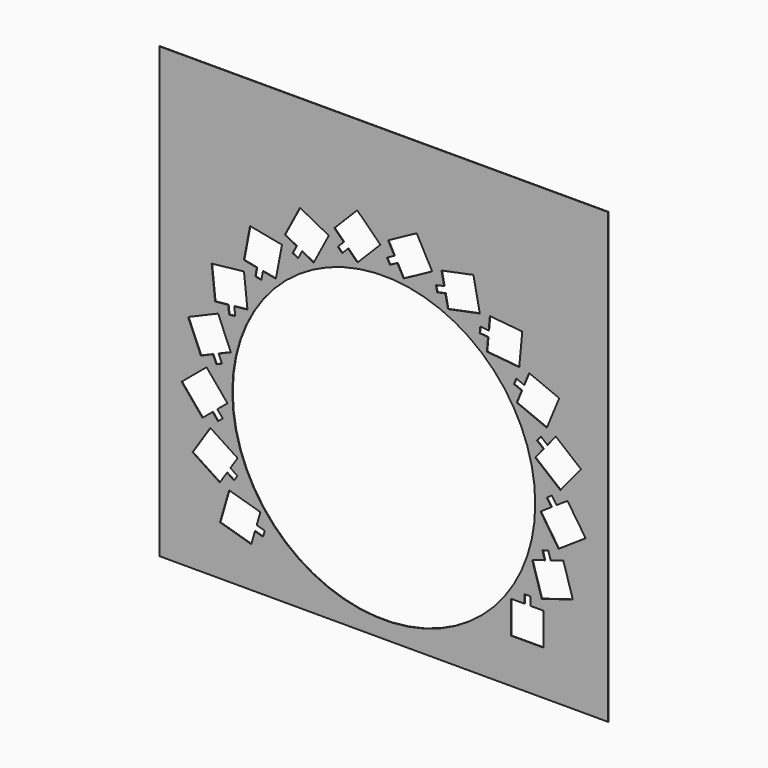
from build123d import *

# Parameters (mm, degrees)
F0_W     = 800
F0_H     = 800
F1_DEPTH = 1
F2_R     = 270
F3_DEPTH = 3
F5_DEPTH = 1


with BuildPart() as f1:
    # F0 (on Front) → F1 (new body)
    with BuildSketch(Plane.XZ):
        Rectangle(F0_W, F0_H)
    extrude(amount=F1_DEPTH)

    # F2 (on Front) → F3 (cut)
    with BuildSketch(Plane.XZ):
        with Locations((0, -100)):
            Circle(F2_R)
    extrude(amount=F3_DEPTH, mode=Mode.SUBTRACT)

    # F4 (on face) → F5 (cut, through all)
    with BuildSketch(Plane.XZ.offset(1)):
        Polygon((250.5, -263), (227, -263), (227, -321), (285, -321), (285, -263), (261.5, -263), (261.5, -248), (250.5, -248), align=None)
        Polygon((320.098432, -173.013655), (297.615381, -179.851959), (293.250506, -165.501075), (282.726524, -168.701983), (287.091399, -183.052867), (264.608347, -189.89117), (281.485863, -245.381255), (336.975947, -228.50374), align=None)
        Polygon((327.492726, -76.708065), (307.972505, -89.792825), (299.62053, -77.333109), (290.483405, -83.457891), (298.83538, -95.917606), (279.315158, -109.002367), (311.609459, -157.179935), (359.787028, -124.885634), align=None)
        Polygon((306.542915, 17.581635), (291.674975, -0.617111), (280.058755, 8.873064), (273.099293, 0.354502), (284.715514, -9.135673), (269.847574, -27.334419), (314.763629, -64.02976), (351.45897, -19.113706), align=None)
        Polygon((259.062181, 101.694786), (250.133325, 79.957133), (236.258228, 85.656403), (232.078763, 75.481331), (245.95386, 69.782062), (237.025005, 48.044409), (290.675381, 26.007233), (312.712557, 79.65761), align=None)
        Polygon((189.159923, 168.351493), (186.942933, 144.956302), (172.009833, 146.371402), (170.972093, 135.420461), (185.905193, 134.005361), (183.688204, 110.61017), (241.429526, 105.138451), (246.901245, 162.879773), align=None)
        Polygon((102.886099, 211.782698), (107.572853, 188.754794), (92.874192, 185.763249), (95.067991, 174.98423), (109.766653, 177.975776), (114.453407, 154.947872), (171.288233, 166.51518), (159.720925, 223.350006), align=None)
        Polygon((7.707606, 228.229482), (18.892471, 207.561904), (5.7004, 200.422628), (10.935869, 190.748442), (24.12794, 197.887718), (35.312805, 177.22014), (86.322147, 204.825338), (58.716949, 255.834681), align=None)
        Polygon((-88.137971, 216.268396), (-71.423032, 199.749897), (-81.966754, 189.080787), (-74.14274, 181.348723), (-63.599017, 192.017833), (-46.884078, 175.499334), (-6.115017, 216.753227), (-47.368909, 257.522288), align=None)
        Polygon((-176.355311, 176.934657), (-155.556956, 165.994894), (-162.539784, 152.719348), (-152.804383, 147.598607), (-145.821556, 160.874153), (-125.023201, 149.93439), (-98.022934, 201.266501), (-149.355045, 228.266768), align=None)
        Polygon((-249.30931, 113.632553), (-226.227612, 109.218349), (-229.045189, 94.48535), (-218.240989, 92.419127), (-215.423412, 107.152126), (-192.341714, 102.737922), (-181.447083, 159.705518), (-238.414679, 170.60015), align=None)
        Polygon((-300.685885, 31.840807), (-277.318537, 34.334206), (-275.727006, 19.418878), (-264.789098, 20.586001), (-266.380629, 35.50133), (-243.013281, 37.994729), (-249.167203, 95.667333), (-306.839807, 89.513411), align=None)
        Polygon((-326.038455, -61.361604), (-304.407874, -52.176402), (-298.544979, -65.983156), (-288.420026, -61.6837), (-294.28292, -47.876946), (-272.652339, -38.691744), (-295.322198, 14.694373), (-348.708315, -7.975487), align=None)
        Polygon((-323.172786, -157.908122), (-305.151071, -142.826086), (-295.52424, -154.329308), (-287.088544, -147.269631), (-296.715375, -135.766409), (-278.693661, -120.684373), (-315.91741, -76.205248), (-360.396534, -113.428997), align=None)
        Polygon((-292.336897, -249.442761), (-279.483808, -229.769223), (-266.92623, -237.973322), (-260.909891, -228.764432), (-273.467468, -220.560333), (-260.614379, -200.886794), (-309.170346, -169.164277), (-340.892863, -217.720244), align=None)
        Polygon((-236.199598, -328.043307), (-229.627554, -305.480988), (-215.226074, -309.67591), (-212.149798, -299.114825), (-226.551278, -294.919903), (-219.979234, -272.357584), (-275.664957, -256.13722), (-291.885321, -311.822943), align=None)
    extrude(amount=-F5_DEPTH, mode=Mode.SUBTRACT)


solid = f1.part
